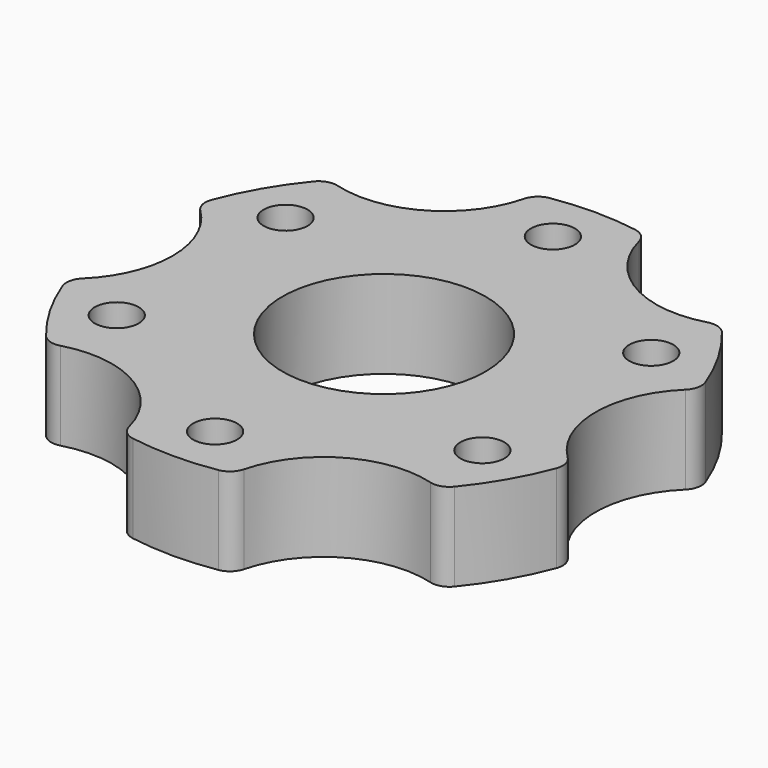
from build123d import *

# Parameters (mm, degrees)
F0_R     = 28.575
F0_R_2   = 11
F1_DEPTH = 9.525
F3_DEPTH = 25.4
F4_R     = 2.38125
F5_DEPTH = 25.4
F6_R     = 2


with BuildPart() as f1:
    # F0 (on Top) → F1 (new body)
    with BuildSketch(Plane.XY):
        Circle(F0_R)
        Circle(F0_R_2, mode=Mode.SUBTRACT)
    extrude(amount=F1_DEPTH)

    # F2 (on Top) → F3 (cut)
    with BuildSketch(Plane.XY):
        with BuildLine():
            ThreePointArc((6.6033751745, -33.3637991738), (17.0054966041, -29.4543841262), (25.592210064, -22.4005902387))
            ThreePointArc((25.592210064, -22.4005902387), (11.4492466041, -19.8306768266), (6.6033751745, -33.3637991738))
        make_face()
        with BuildLine():
            ThreePointArc((-25.592210064, -22.4005902387), (-17.0054966041, -29.4543841262), (-6.6033751745, -33.3637991738))
            ThreePointArc((-6.6033751745, -33.3637991738), (-6.0720335059, -31.4411002438), (-5.8929966041, -29.4543841262))
            ThreePointArc((-5.8929966041, -29.4543841262), (-13.259311683, -18.9923692731), (-25.592210064, -22.4005902387))
        make_face()
        with BuildLine():
            ThreePointArc((-22.8984932081, 0), (-25.5356944726, 7.187278177), (-32.1955852385, 10.9632089351))
            ThreePointArc((-32.1955852385, 10.9632089351), (-34.0109932081, 0), (-32.1955852385, -10.9632089351))
            ThreePointArc((-32.1955852385, -10.9632089351), (-25.5356944726, -7.187278177), (-22.8984932081, 0))
        make_face()
        with BuildLine():
            ThreePointArc((-5.8929966041, 29.4543841262), (-6.0720335059, 31.4411002438), (-6.6033751745, 33.3637991738))
            ThreePointArc((-6.6033751745, 33.3637991738), (-17.0054966041, 29.4543841262), (-25.592210064, 22.4005902387))
            ThreePointArc((-25.592210064, 22.4005902387), (-13.259311683, 18.9923692731), (-5.8929966041, 29.4543841262))
        make_face()
        with BuildLine():
            ThreePointArc((6.6033751745, 33.3637991738), (11.4492466041, 19.8306768266), (25.592210064, 22.4005902387))
            ThreePointArc((25.592210064, 22.4005902387), (17.0054966041, 29.4543841262), (6.6033751745, 33.3637991738))
        make_face()
        with BuildLine():
            ThreePointArc((32.1955852385, -10.9632089351), (33.5540719577, -5.55625), (34.0109932081, 0))
            ThreePointArc((34.0109932081, 0), (33.5540719577, 5.55625), (32.1955852385, 10.9632089351))
            ThreePointArc((32.1955852385, 10.9632089351), (22.8984932081, 0), (32.1955852385, -10.9632089351))
        make_face()
    extrude(amount=F3_DEPTH, mode=Mode.SUBTRACT)

    # F4 (on Top) → F5 (cut)
    with BuildSketch(Plane.XY):
        with Locations((0, 22.86)):
            Circle(F4_R)
        with Locations((-19.7973407305, 11.43)):
            Circle(F4_R)
        with Locations((-19.7973407305, -11.43)):
            Circle(F4_R)
        with Locations((0, -22.86)):
            Circle(F4_R)
        with Locations((19.7973407305, -11.43)):
            Circle(F4_R)
        with Locations((19.7973407305, 11.43)):
            Circle(F4_R)
    extrude(amount=F5_DEPTH, mode=Mode.SUBTRACT)

    # F6
    f6_edges = [f1.edges().sort_by_distance(p)[0] for p in [
        (-5.996854, -27.938654, 4.7625),
        (-21.197157, -19.162755, 4.7625),
        (-27.194011, -8.775899, 4.7625),
        (-27.194011, 8.775899, 4.7625),
        (-21.197157, 19.162755, 4.7625),
        (-5.996854, 27.938654, 4.7625),
        (21.197157, 19.162755, 4.7625),
        (5.996854, 27.938654, 4.7625),
        (27.194011, 8.775899, 4.7625),
        (27.194011, -8.775899, 4.7625),
        (21.197157, -19.162755, 4.7625),
        (5.996854, -27.938654, 4.7625),
    ]]
    fillet(f6_edges, radius=F6_R)


solid = f1.part
